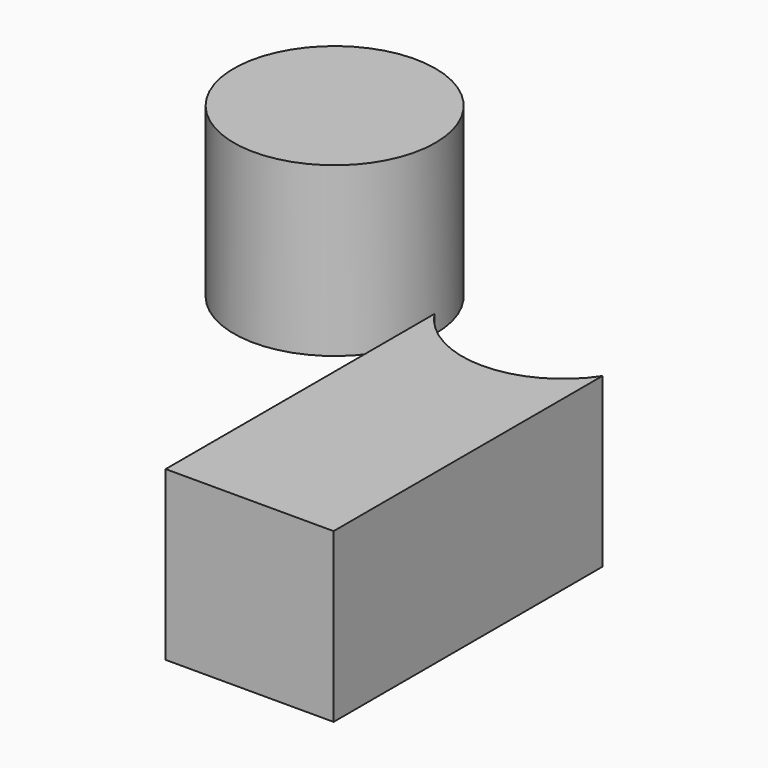
from build123d import *

# Parameters (mm, degrees)
F0_W     = 50.8
F0_H     = 50.8
F1_DEPTH = 101.6
F3_DEPTH = 50.801
F4_R     = 30.48
F5_DEPTH = 50.8


with BuildPart() as f1:
    # F0 (on Front) → F1 (new body)
    with BuildSketch(Plane.XZ):
        Rectangle(F0_W, F0_H)
    extrude(amount=F1_DEPTH)

    # F2 (on face) → F3 (cut, through all)
    with BuildSketch(Plane.XY.offset(25.4)):
        with BuildLine():
            Line((25.4, 0), (-25.4, 0))
            ThreePointArc((-25.4, 0), (0, -13.631546), (25.4, 0))
        make_face()
    extrude(amount=-F3_DEPTH, mode=Mode.SUBTRACT)


with BuildPart() as f5:
    # F4 (on Top) → F5 (new body)
    with BuildSketch(Plane.XY):
        with Locations((-79.855837, 30.357406)):
            Circle(F4_R)
    extrude(amount=F5_DEPTH)


solid = Compound([f1.part, f5.part])
